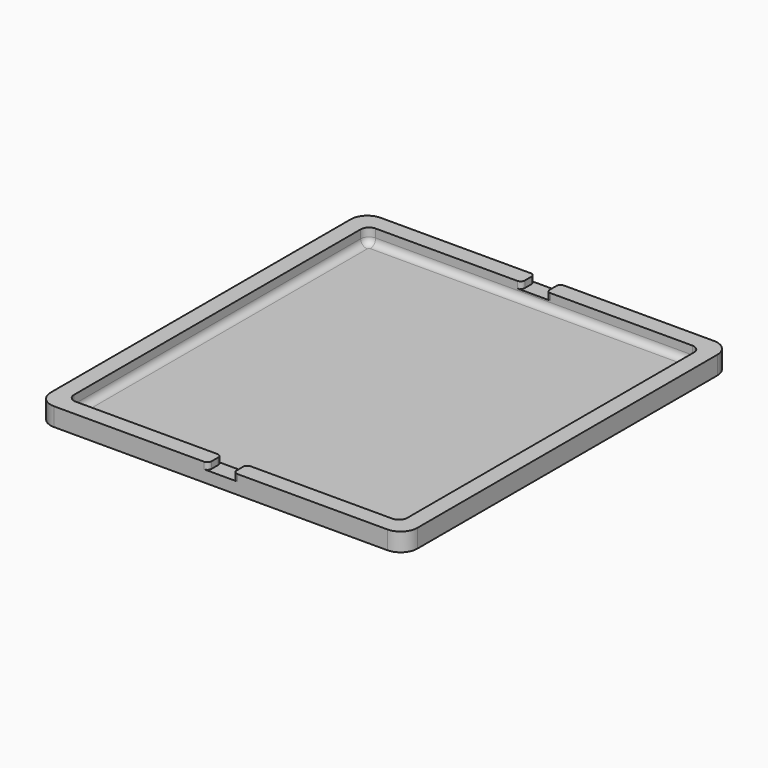
from build123d import *

# Parameters (mm, degrees)
F1_DEPTH = 22
F3_DEPTH = 18
F4_R     = 8
F5_W     = 30
F5_H     = 597.1070975065
F6_DEPTH = 8
F7_R     = 5


with BuildPart() as f1:
    # F0 (on Top) → F1 (new body)
    with BuildSketch(Plane.XY):
        with BuildLine():
            Line((200, 245), (0, 245))
            Line((0, 245), (-200, 245))
            ThreePointArc((-200, 245), (-214.1421356237, 239.1421356237), (-220, 225))
            Line((-220, 225), (-220, 0))
            Line((-220, 0), (-220, -225))
            ThreePointArc((-220, -225), (-214.1421356237, -239.1421356237), (-200, -245))
            Line((-200, -245), (0, -245))
            Line((0, -245), (200, -245))
            ThreePointArc((200, -245), (214.1421356237, -239.1421356237), (220, -225))
            Line((220, -225), (220, 0))
            Line((220, 0), (220, 225))
            ThreePointArc((220, 225), (214.1421356237, 239.1421356237), (200, 245))
        make_face()
    extrude(amount=F1_DEPTH)

    # F2 (on face) → F3 (cut)
    with BuildSketch(Plane.XY.offset(22)):
        with BuildLine():
            Line((190, 225), (-190, 225))
            ThreePointArc((-190, 225), (-197.0710678119, 222.0710678119), (-200, 215))
            Line((-200, 215), (-200, -215))
            ThreePointArc((-200, -215), (-197.0710678119, -222.0710678119), (-190, -225))
            Line((-190, -225), (190, -225))
            ThreePointArc((190, -225), (197.0710678119, -222.0710678119), (200, -215))
            Line((200, -215), (200, 215))
            ThreePointArc((200, 215), (197.0710678119, 222.0710678119), (190, 225))
        make_face()
    extrude(amount=-F3_DEPTH, mode=Mode.SUBTRACT)

    # F4
    f4_edges = [f1.edges().sort_by_distance(p)[0] for p in [
        (0, 225, 4),
        (-197.071068, 222.071068, 4),
        (-200, 0, 4),
        (-197.071068, -222.071068, 4),
        (0, -225, 4),
        (197.071068, -222.071068, 4),
        (200, 0, 4),
        (197.071068, 222.071068, 4),
    ]]
    fillet(f4_edges, radius=F4_R)

    # F5 (on face) → F6 (cut)
    with BuildSketch(Plane.XY.offset(22)):
        with Locations((0, -8.4120258689)):
            Rectangle(F5_W, F5_H)
    extrude(amount=-F6_DEPTH, mode=Mode.SUBTRACT)

    # F7
    f7_edges = [f1.edges().sort_by_distance(p)[0] for p in [
        (-15, -245, 18),
        (15, -245, 18),
        (15, -225, 18),
        (-15, -225, 18),
        (-15, 225, 18),
        (-15, 245, 18),
        (15, 225, 18),
        (15, 245, 18),
    ]]
    fillet(f7_edges, radius=F7_R)


solid = f1.part
